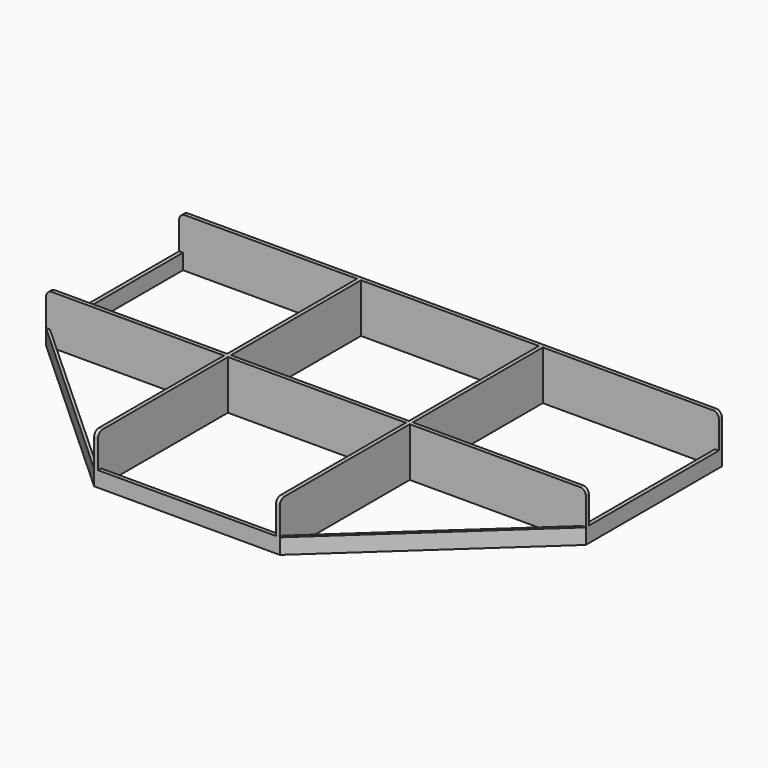
from build123d import *

# Parameters (mm, degrees)
SKETCH_W      = 92.1334
SKETCH_H      = 84.09
PAD_DEPTH     = 25.4
FILLET_R      = 3
SKETCH001_W   = 90.133333
SKETCH001_H   = 84.09
SKETCH001_W_2 = 92.133365
SKETCH001_H_2 = 82.09
SKETCH001_W_3 = 89.13332
SKETCH001_W_4 = 92.1334
PAD001_DEPTH  = 8


with BuildPart() as part:
    # Sketch → Pad (new body)
    with BuildSketch(Plane.XY):
        Polygon((-140.19998, 86.09), (-48.066647, 86.09), (-48.066647, 170.18), (-140.19998, 170.18), (-140.19998, 172.18), (139.20002, 172.18), (139.20002, 170.18), (48.0667, 170.18), (48.0667, 86.09), (139.20002, 86.09), (139.20002, 84.09), (48.066665, 84.09), (48.066665, 0), (46.066665, 0), (46.066665, 84.09), (-46.06665, 84.09), (-46.06665, 0), (-48.06665, 0), (-48.06665, 84.09), (-140.19998, 84.09), align=None)
        with Locations((0, 128.135)):
            Rectangle(SKETCH_W, SKETCH_H, mode=Mode.SUBTRACT)
    extrude(amount=PAD_DEPTH)

    # Fillet
    fillet_edges = [part.edges().sort_by_distance(p)[0] for p in [
        (-47.06665, 0, 25.4),
        (47.066665, 0, 25.4),
        (139.20002, 171.18, 25.4),
        (139.20002, 85.09, 25.4),
        (-140.19998, 85.09, 25.4),
        (-140.19998, 171.18, 25.4),
    ]]
    fillet(fillet_edges, radius=FILLET_R)

    # Sketch001 → Pad001 (join)
    with BuildSketch(Plane.XY):
        Polygon((139.20002, 86.09), (139.20002, 84.09), (48.066665, 0), (46.066665, 0), (-46.06665, 0), (-48.06665, 0), (-140.19998, 84.09), (-140.19998, 86.09), (-140.19998, 170.18), (-140.19998, 172.18), (139.20002, 172.18), (139.20002, 170.18), align=None)
        with Locations((-93.133313, 128.135)):
            Rectangle(SKETCH001_W, SKETCH001_H, mode=Mode.SUBTRACT)
        Polygon((137.20002, 84.09), (48.066665, 84.09), (48.066665, 2), align=None, mode=Mode.SUBTRACT)
        with Locations((-1.7e-05, 43.045)):
            Rectangle(SKETCH001_W_2, SKETCH001_H_2, mode=Mode.SUBTRACT)
        Polygon((-48.0667, 2), (-48.0667, 84.09), (-138.19998, 84.09), align=None, mode=Mode.SUBTRACT)
        with Locations((92.63336, 128.135)):
            Rectangle(SKETCH001_W_3, SKETCH001_H, mode=Mode.SUBTRACT)
        with Locations((0, 128.135)):
            Rectangle(SKETCH001_W_4, SKETCH001_H, mode=Mode.SUBTRACT)
    extrude(amount=PAD001_DEPTH)


solid = part.part
